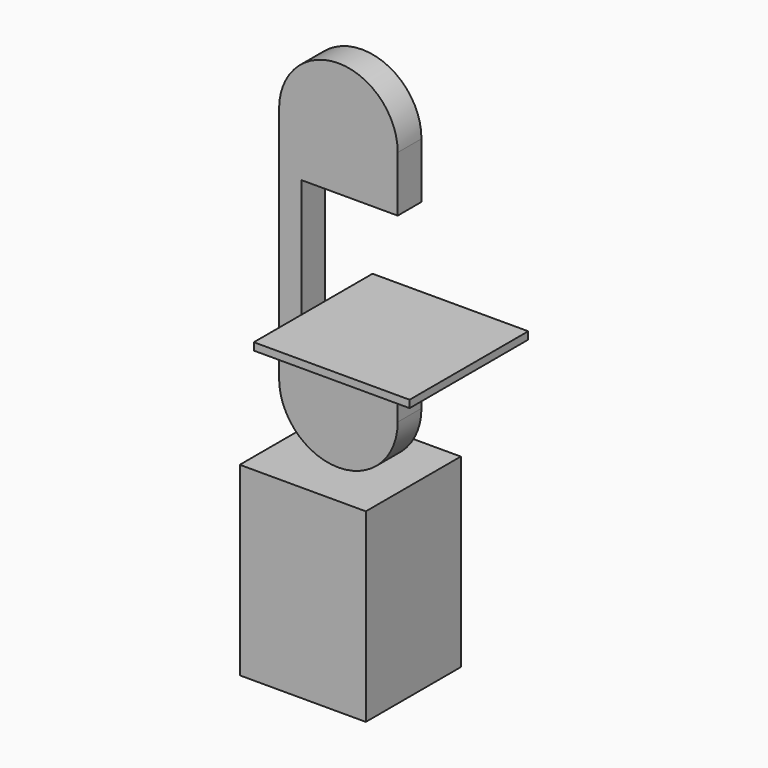
from build123d import *

# Parameters (mm, degrees)
F0_W     = 431.8
F0_H     = 406.4
F1_DEPTH = 635
F2_R     = 177.8
F3_DEPTH = 50.8
F4_DEPTH = 254


with BuildPart() as f1:
    # F0 (on Top) → F1 (new body)
    with BuildSketch(Plane.XY):
        Rectangle(F0_W, F0_H)
    extrude(amount=F1_DEPTH)


with BuildPart() as f3:
    # F2 (on Front) → F3 (new body, symmetric)
    with BuildSketch(Plane.XZ):
        with BuildLine():
            Line((-127, 1028.7), (-203.2, 1028.7))
            Line((-203.2, 1028.7), (-203.2, 838.2))
            ThreePointArc((-203.2, 838.2), (0, 635), (203.2, 838.2))
            Line((203.2, 838.2), (203.2, 1028.7))
            Line((203.2, 1028.7), (-127, 1028.7))
        make_face()
        with Locations((0, 838.2)):
            Circle(F2_R, mode=Mode.SUBTRACT)
        with BuildLine():
            ThreePointArc((203.2, 1651), (0, 1854.2), (-203.2, 1651))
            Line((-203.2, 1651), (-203.2, 1460.5))
            Line((-203.2, 1460.5), (-127, 1460.5))
            Line((-127, 1460.5), (203.2, 1460.5))
            Line((203.2, 1460.5), (203.2, 1651))
        make_face()
        with Locations((0, 1651)):
            Circle(F2_R, mode=Mode.SUBTRACT)
        Polygon((-127, 1460.5), (-203.2, 1460.5), (-203.2, 1028.7), (-127, 1028.7), (-127, 1054.1), align=None)
        with Locations((0, 1651)):
            Circle(F2_R)
        with Locations((0, 838.2)):
            Circle(F2_R)
    extrude(amount=F3_DEPTH, both=True)

    # F2 (on Front) → F4 (join, symmetric)
    with BuildSketch(Plane.XZ):
        Polygon((-127, 1054.1), (-127, 1028.7), (203.2, 1028.7), (406.4, 1028.7), (406.4, 1054.1), align=None)
    extrude(amount=F4_DEPTH, both=True)


solid = Compound([f1.part, f3.part])
